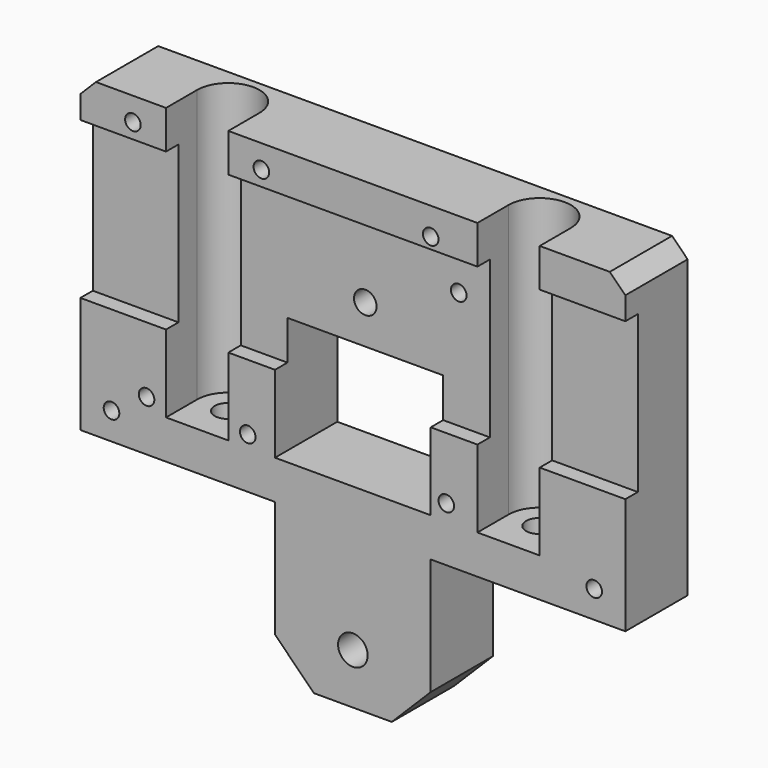
from build123d import *

# Parameters (mm, degrees)
F0_R     = 1
F0_W     = 20
F0_H     = 15
F0_H_2   = 20
F0_R_2   = 1.9
F1_DEPTH = 10
F2_R     = 1.75
F3_DEPTH = 60.001
F4_W     = 2
F4_H     = 20.12
F5_DEPTH = 70.001
F6_R     = 1.45
F7_DEPTH = 8.001
F8_DEPTH = 35
F9_SIZE  = 5
F10_SIZE = 2


with BuildPart() as f1:
    # F0 (on Front) → F1 (new body)
    with BuildSketch(Plane.XZ):
        Polygon((35, 40), (-35, 40), (-35, 0), (-10, 0), (10, 0), (35, 0), align=None)
        with Locations((-31, 3.5)):
            Circle(F0_R, mode=Mode.SUBTRACT)
        with Locations((-26.5, 6.5)):
            Circle(F0_R, mode=Mode.SUBTRACT)
        with Locations((-13.5, 6.5)):
            Circle(F0_R, mode=Mode.SUBTRACT)
        with Locations((12, 7)):
            Circle(F0_R, mode=Mode.SUBTRACT)
        with Locations((31, 3.5)):
            Circle(F0_R, mode=Mode.SUBTRACT)
        with Locations((-28.25, 37)):
            Circle(F0_R, mode=Mode.SUBTRACT)
        with Locations((-11.75, 37)):
            Circle(F0_R, mode=Mode.SUBTRACT)
        with Locations((0, 12.5)):
            Rectangle(F0_W, F0_H, mode=Mode.SUBTRACT)
        with Locations((12, 30)):
            Circle(F0_R, mode=Mode.SUBTRACT)
        with Locations((10, 36.5)):
            Circle(F0_R, mode=Mode.SUBTRACT)
        with Locations((0, -10)):
            Rectangle(F0_W, F0_H_2)
        with Locations((0, -13.5)):
            Circle(F0_R_2, mode=Mode.SUBTRACT)
    extrude(amount=F1_DEPTH)

    # F2 (on face) → F3 (cut, through all)
    with BuildSketch(Plane.XY.offset(40)):
        with Locations((-20, -5)):
            Circle(F2_R)
        with Locations((20, -5)):
            Circle(F2_R)
    extrude(amount=-F3_DEPTH, mode=Mode.SUBTRACT)

    # F4 (on face) → F5 (cut, through all)
    with BuildSketch(Plane(origin=(-35, 0, 0), x_dir=(0, -1, 0), z_dir=(-1, 0, 0))):
        with Locations((9, 25)):
            Rectangle(F4_W, F4_H)
    extrude(amount=-F5_DEPTH, mode=Mode.SUBTRACT)

    # F6 (on face) → F7 (cut, through all)
    with BuildSketch(Plane.XZ.offset(8)):
        with Locations((0, 25)):
            Circle(F6_R)
    extrude(amount=-F7_DEPTH, mode=Mode.SUBTRACT)

    # F2 (on face) → F8 (cut)
    with BuildSketch(Plane.XY.offset(40)):
        with Locations((-20, -5)):
            Circle(F2_R)
        with Locations((20, -5)):
            Circle(F2_R)
        with BuildLine():
            Line((-24, -5), (-24, -10))
            Line((-24, -10), (-16, -10))
            Line((-16, -10), (-16, -5))
            ThreePointArc((-16, -5), (-20, -1), (-24, -5))
        make_face()
        with Locations((-20, -5)):
            Circle(F2_R, mode=Mode.SUBTRACT)
        with BuildLine():
            Line((16, -5), (16, -10))
            Line((16, -10), (24, -10))
            Line((24, -10), (24, -5))
            ThreePointArc((24, -5), (20, -1), (16, -5))
        make_face()
        with Locations((20, -5)):
            Circle(F2_R, mode=Mode.SUBTRACT)
    extrude(amount=-F8_DEPTH, mode=Mode.SUBTRACT)

    # F9
    f9_edges = [f1.edges().sort_by_distance(p)[0] for p in [
        (10, -5, -20),
        (-10, -5, -20),
    ]]
    chamfer(f9_edges, length=F9_SIZE)

    # F10
    f10_edges = [f1.edges().sort_by_distance(p)[0] for p in [
        (-35, -5, 40),
        (35, -5, 40),
    ]]
    chamfer(f10_edges, length=F10_SIZE)


solid = f1.part
